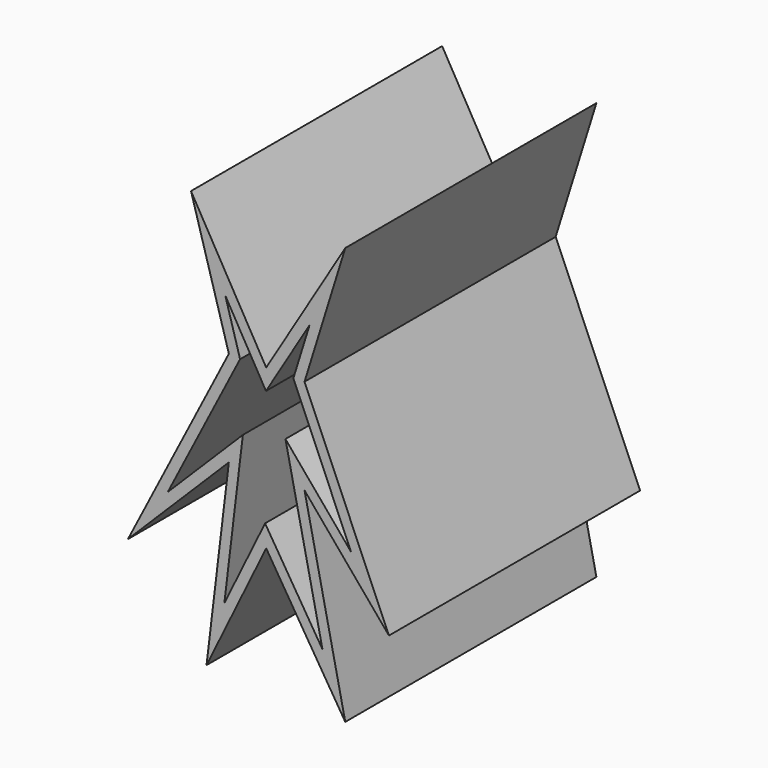
from build123d import *

# Parameters (mm, degrees)
F1_DEPTH = 98.806
F3_DEPTH = 80.772


with BuildPart() as f1:
    # F0 (on Front) → F1 (new body)
    with BuildSketch(Plane.XZ):
        Polygon((0, -20.002501), (24.888605, -60.007501), (12.062577, 0), (38.630784, -31.607002), (12.062577, 30.080097), (24.888605, 71.306624), (0, 30.080097), (-23.66708, 71.306624), (-11.757195, 30.080097), (-43.516889, -31.607002), (-11.757195, 0), (-18.780975, -58.480591), align=None)
    extrude(amount=-F1_DEPTH)

    # F2 (on face) → F3 (cut)
    with BuildSketch(Plane.XZ):
        Polygon((8.546956, 29.895244), (13.65233, 46.305379), (-0.071587, 23.572508), (-12.891517, 45.904), (-8.220637, 29.735567), (-30.981843, -14.473698), (-7.34452, 9.049982), (-13.170568, -39.45819), (-0.349297, -13.190223), (17.709537, -42.21731), (6.063784, 12.268189), (26.72525, -12.311829), align=None)
    extrude(amount=-F3_DEPTH, mode=Mode.SUBTRACT)


solid = f1.part
